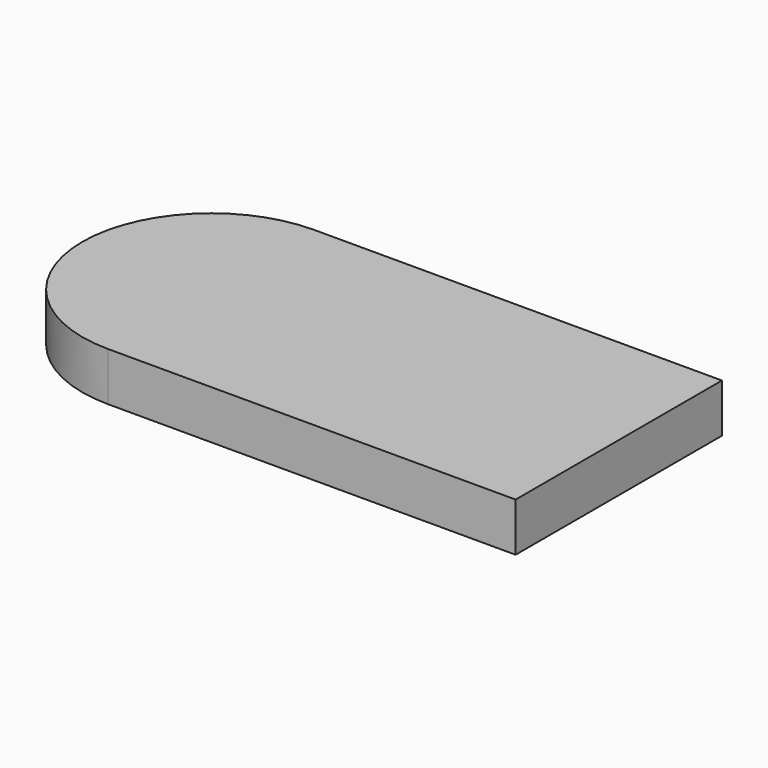
from build123d import *

# Parameters (mm, degrees)
F1_DEPTH = 25.4


with BuildPart() as f1:
    # F0 (on Top) → F1 (new body)
    with BuildSketch(Plane.XY):
        with BuildLine():
            Line((-221.8966279179, -55.0406351686), (-8.934115991, -55.0406351686))
            Line((-8.934115991, -55.0406351686), (-8.934115991, 79.6907674521))
            Line((-8.934115991, 79.6907674521), (-221.8966279179, 79.6907674521))
            ThreePointArc((-221.8966279179, 79.6907674521), (-174.261883702, 59.9598103577), (-154.5309266075, 12.3250661418))
            ThreePointArc((-154.5309266075, 12.3250661418), (-174.261883702, -35.3096780741), (-221.8966279179, -55.0406351686))
        make_face()
        with BuildLine():
            ThreePointArc((-221.8966279179, 79.6907674521), (-289.2623292282, 12.3250661418), (-221.8966279179, -55.0406351686))
            Line((-221.8966279179, -55.0406351686), (-221.8966279179, 79.6907674521))
        make_face()
        with BuildLine():
            Line((-221.8966279179, 79.6907674521), (-221.8966279179, -55.0406351686))
            ThreePointArc((-221.8966279179, -55.0406351686), (-174.261883702, -35.3096780741), (-154.5309266075, 12.3250661418))
            ThreePointArc((-154.5309266075, 12.3250661418), (-174.261883702, 59.9598103577), (-221.8966279179, 79.6907674521))
        make_face()
    extrude(amount=F1_DEPTH)


solid = f1.part
